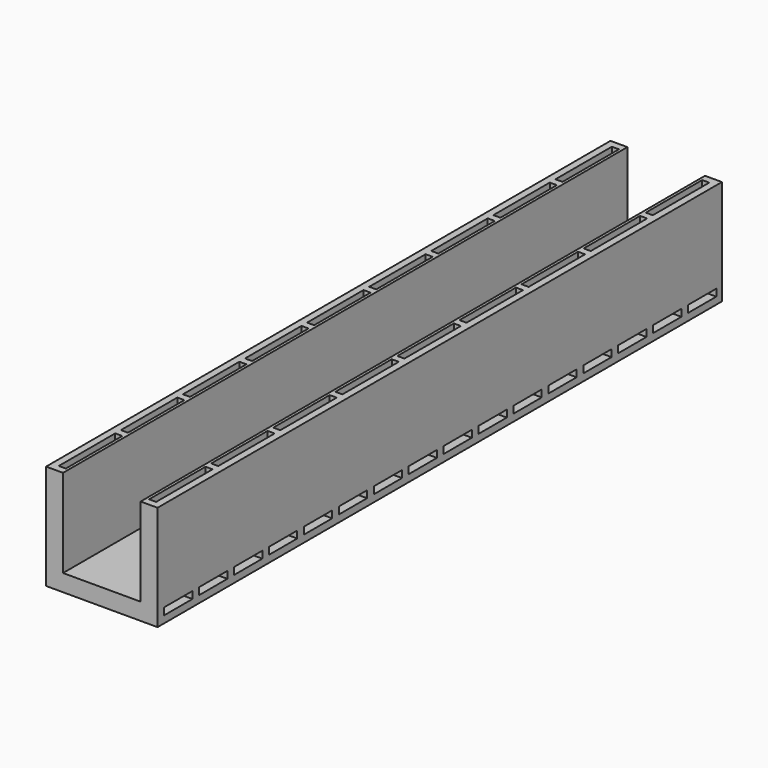
from build123d import *

# Parameters (mm, degrees)
PAD_DEPTH              = 200
SKETCH001_W            = 2
SKETCH001_H            = 20
POCKET_DEPTH           = 12
LINEARPATTERN_COUNT    = 10
LINEARPATTERN_PITCH    = 22
SKETCH002_W            = 2
SKETCH002_H            = 10
POCKET001_DEPTH        = 25.8
LINEARPATTERN001_COUNT = 17
LINEARPATTERN001_PITCH = 12.375


with BuildPart() as part:
    # Sketch → Pad (new body)
    with BuildSketch(Plane.XZ):
        Polygon((0, 0), (0, 29.8), (4.8, 29.8), (4.8, 4.8), (26.8, 4.8), (26.8, 29.8), (31.6, 29.8), (31.6, 0), align=None)
    extrude(amount=PAD_DEPTH)

    # Sketch001 (on Face2 of Pad) → Pocket (cut)
    with BuildSketch(Plane(origin=(0, 0, 29.8), x_dir=(-1, 0, 0), z_dir=(0, 0, 1))):
        with Locations((-28.6, 12)):
            Rectangle(SKETCH001_W, SKETCH001_H)
        with Locations((-3, 12)):
            Rectangle(SKETCH001_W, SKETCH001_H)
    pocket = extrude(amount=-POCKET_DEPTH, mode=Mode.SUBTRACT)

    # LinearPattern: Pocket ×10
    with Locations(*[(0, -i * LINEARPATTERN_PITCH, 0) for i in range(1, LINEARPATTERN_COUNT)]):
        add(pocket, mode=Mode.SUBTRACT)

    # Sketch002 (on Face6 of LinearPattern) → Pocket001 (cut)
    with BuildSketch(Plane(origin=(31.6, 0, 0), x_dir=(0, 0, 1), z_dir=(1, 0, 0))):
        with Locations((3, 7)):
            Rectangle(SKETCH002_W, SKETCH002_H)
    pocket001 = extrude(amount=-POCKET001_DEPTH, mode=Mode.SUBTRACT)

    # LinearPattern001: Pocket001 ×17
    with Locations(*[(0, -i * LINEARPATTERN001_PITCH, 0) for i in range(1, LINEARPATTERN001_COUNT)]):
        add(pocket001, mode=Mode.SUBTRACT)


solid = part.part
